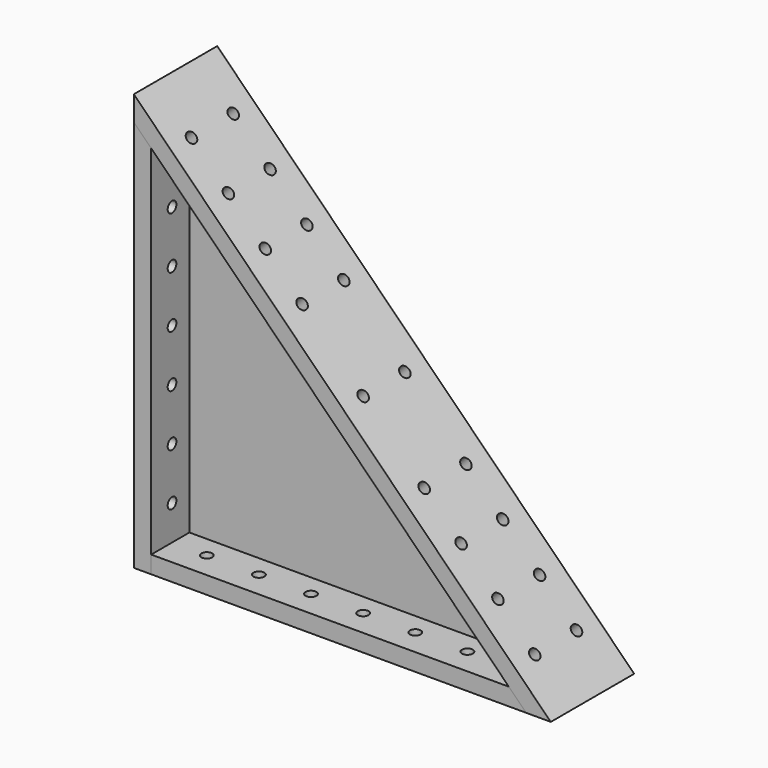
from build123d import *

# Parameters (mm, degrees)
F1_DEPTH   = 38.1
F2_DEPTH   = 38.1
F3_DEPTH   = 38.1
F4_DEPTH   = 3.175
F9_D       = 7.9375
F9_ON_F7_D = 7.9375
F10_D      = 7.9375


with BuildPart() as f1:
    # F0 (on Front) → F1 (new body, symmetric)
    with BuildSketch(Plane.XZ):
        Polygon((-152.4, 152.4), (-152.4, 134.4394877579), (-146.05, 128.0894877579), (-146.05, 137.0697438789), (137.0697438789, -146.05), (128.0894877579, -146.05), (134.4394877579, -152.4), (152.4, -152.4), align=None)
        Polygon((-146.05, 137.0697438789), (-146.05, 128.0894877579), (-142.875, 124.9144877579), (-142.875, 129.4046158184), (129.4046158184, -142.875), (124.9144877579, -142.875), (128.0894877579, -146.05), (137.0697438789, -146.05), align=None)
        Polygon((-142.875, 129.4046158184), (-142.875, 124.9144877579), (-139.7, 121.7394877579), (121.7394877579, -139.7), (124.9144877579, -142.875), (129.4046158184, -142.875), align=None)
    extrude(amount=F1_DEPTH, both=True)


with BuildPart() as f2:
    # F0 (on Front) → F2 (new body, symmetric)
    with BuildSketch(Plane.XZ):
        Polygon((-152.4, 134.4394877579), (-152.4, -152.4), (-139.7, -152.4), (-139.7, -146.05), (-146.05, -146.05), (-146.05, 128.0894877579), align=None)
        Polygon((-146.05, -146.05), (-139.7, -146.05), (-139.7, -142.875), (-142.875, -142.875), (-142.875, 124.9144877579), (-146.05, 128.0894877579), align=None)
        Polygon((-142.875, -142.875), (-139.7, -142.875), (-139.7, -139.7), (-139.7, 121.7394877579), (-142.875, 124.9144877579), align=None)
    extrude(amount=F2_DEPTH, both=True)


with BuildPart() as f3:
    # F0 (on Front) → F3 (new body, symmetric)
    with BuildSketch(Plane.XZ):
        Polygon((-139.7, -139.7), (-139.7, -142.875), (124.9144877579, -142.875), (121.7394877579, -139.7), align=None)
        Polygon((-139.7, -142.875), (-139.7, -146.05), (128.0894877579, -146.05), (124.9144877579, -142.875), align=None)
        Polygon((-139.7, -146.05), (-139.7, -152.4), (134.4394877579, -152.4), (128.0894877579, -146.05), align=None)
    extrude(amount=F3_DEPTH, both=True)


with BuildPart() as f4:
    # F0 (on Front) → F4 (new body, symmetric)
    with BuildSketch(Plane.XZ):
        Polygon((-139.7, 121.7394877579), (-139.7, -139.7), (121.7394877579, -139.7), align=None)
        Polygon((-142.875, -142.875), (-139.7, -142.875), (-139.7, -139.7), (-139.7, 121.7394877579), (-142.875, 124.9144877579), align=None)
        Polygon((-142.875, 129.4046158184), (-142.875, 124.9144877579), (-139.7, 121.7394877579), (121.7394877579, -139.7), (124.9144877579, -142.875), (129.4046158184, -142.875), align=None)
        Polygon((-139.7, -139.7), (-139.7, -142.875), (124.9144877579, -142.875), (121.7394877579, -139.7), align=None)
    extrude(amount=F4_DEPTH, both=True)


with BuildPart() as f1_1:
    add(f1.part)

    # F5: cut F4
    add(f4.part, mode=Mode.SUBTRACT)

    # F10 (through all)
    with Locations(Plane(origin=(0, 0, 0), x_dir=(0, 1, 0), z_dir=(0.7071067812, 0, 0.7071067812))):
        with Locations((19.05, 177.4261469057), (-19.05, 177.4261469057), (-19.05, 139.3261469057), (19.05, 139.3261469057), (19.05, 101.2261469057), (-19.05, 101.2261469057), (19.05, 63.1261469057), (-19.05, 63.1261469057), (19.05, 0), (-19.05, -63.1261469057), (-19.05, -101.2261469057), (-19.05, -139.3261469057), (-19.05, -177.4261469057), (19.05, -177.4261469057), (19.05, -139.3261469057), (19.05, -101.2261469057), (19.05, -63.1261469057), (-19.05, 0)):
            Hole(F10_D / 2)


with BuildPart() as f2_1:
    add(f2.part)

    # F5: cut F4
    add(f4.part, mode=Mode.SUBTRACT)

    # F9 (through all)
    with Locations(Plane(origin=(-152.4, 0, 0), x_dir=(0, -1, 0), z_dir=(-1, 0, 0))):
        with Locations((19.05, 114.3), (19.05, 76.2), (-19.05, 76.2), (-19.05, 38.1), (19.05, 38.1), (19.05, 0), (-19.05, 0), (-19.05, -38.1), (19.05, -38.1), (19.05, -76.2), (-19.05, -76.2), (-19.05, -114.3), (19.05, -114.3), (-19.05, 114.3)):
            Hole(F9_D / 2)


with BuildPart() as f3_1:
    add(f3.part)

    # F5: cut F4
    add(f4.part, mode=Mode.SUBTRACT)

    # F9 on F7 (through all)
    with Locations(Plane(origin=(0, 0, -152.4), x_dir=(1, 0, 0), z_dir=(0, 0, -1))):
        with Locations((-114.3, 19.05), (-114.3, -19.05), (-76.2, -19.05), (-76.2, 19.05), (-38.1, 19.05), (-38.1, -19.05), (0, 19.05), (38.1, 19.05), (76.2, 19.05), (114.3, 19.05), (114.3, -19.05), (76.2, -19.05), (38.1, -19.05), (0, -19.05)):
            Hole(F9_ON_F7_D / 2)


solid = Compound([f4.part, f1_1.part, f2_1.part, f3_1.part])
